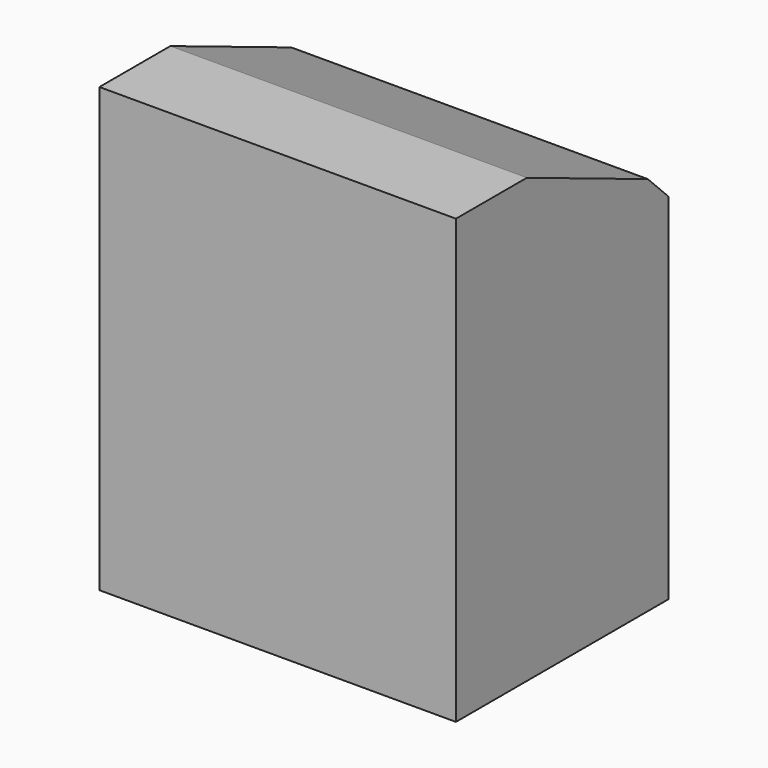
from build123d import *

# Parameters (mm, degrees)
F0_W     = 20.1190489383
F0_H     = 15
F1_DEPTH = 25
F2_SIZE  = 5
F3_SIZE  = 5


with BuildPart() as f1:
    # F0 (on Top) → F1 (new body)
    with BuildSketch(Plane.XY):
        with Locations((-10.0595244691, 3.5714283609)):
            Rectangle(F0_W, F0_H)
    extrude(amount=F1_DEPTH)

    # F2
    f2_edges = [f1.edges().sort_by_distance(p)[0] for p in [
        (-10.059524, 11.071428, 25),
    ]]
    chamfer(f2_edges, length=F2_SIZE)

    # F3
    f3_edges = [f1.edges().sort_by_distance(p)[0] for p in [
        (-10.059524, 6.071428, 25),
    ]]
    chamfer(f3_edges, length=F3_SIZE)


solid = f1.part
